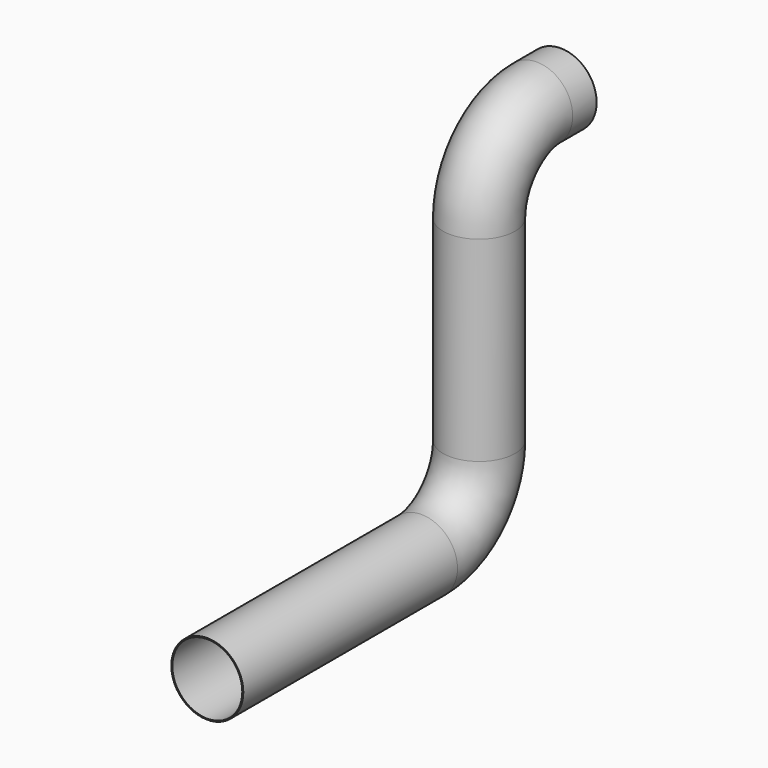
from build123d import *

# Parameters (mm, degrees)
F0_R   = 53
F0_R_2 = 51.5


with BuildPart() as f2:
    # F2: sweep along a path in F1
    with BuildLine(Plane.YZ) as f2_path:
        Line((0, 0), (-44, 0))
        ThreePointArc((-44, 0), (-118.953319, -31.046681), (-150, -106))
        Line((-150, -106), (-150, -394))
        ThreePointArc((-150, -394), (-181.046681, -468.953319), (-256, -500))
        Line((-256, -500), (-650, -500))
    # F0 (on Front) → F2 (sweep)
    with BuildSketch(Plane.XZ):
        Circle(F0_R)
        Circle(F0_R_2, mode=Mode.SUBTRACT)
    sweep(path=f2_path.line)


solid = f2.part
